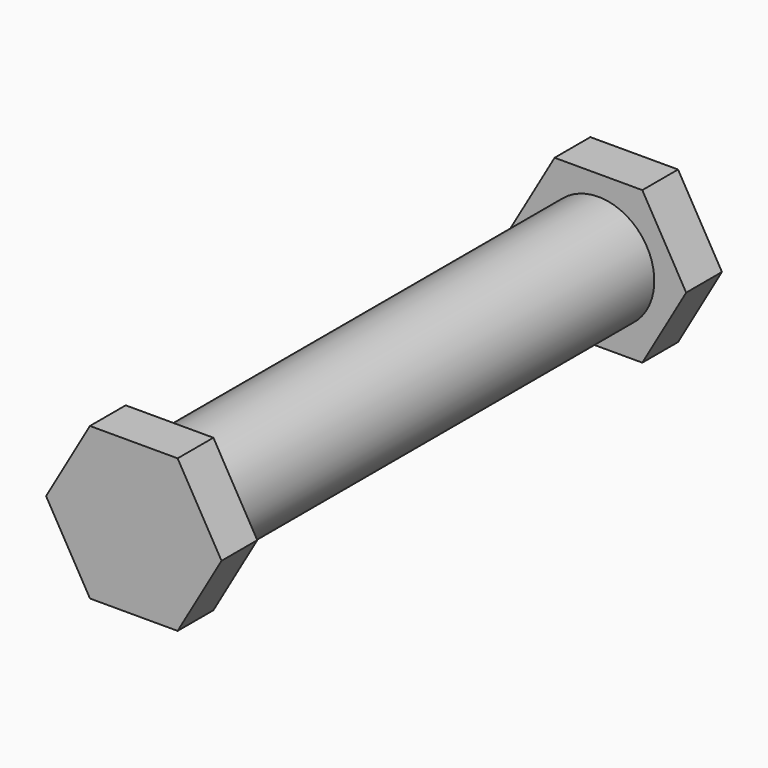
from build123d import *

# Parameters (mm, degrees)
F1_DEPTH = 6.35
F2_R     = 7.9375
F3_DEPTH = 76.2
F4_R     = 7.9375
F5_DEPTH = 6.35


with BuildPart() as f1:
    # F0 (on Front) → F1 (new body)
    with BuildSketch(Plane.XZ):
        Polygon((12.464992, 0), (6.232496, 10.795), (-6.232496, 10.795), (-12.464992, 0), (-6.232496, -10.795), (6.232496, -10.795), align=None)
    extrude(amount=F1_DEPTH)

    # F2 (on face) → F3 (join)
    with BuildSketch(Plane(origin=(0, 0, 0), x_dir=(-1, 0, 0), z_dir=(0, 1, 0))):
        Circle(F2_R)
    extrude(amount=F3_DEPTH)

    # F4 (on face) → F5 (join)
    with BuildSketch(Plane(origin=(0, 76.2, 0), x_dir=(-1, 0, 0), z_dir=(0, 1, 0))):
        Polygon((12.464992, 0), (6.232496, 10.795), (-6.232496, 10.795), (-12.464992, 0), (-6.232496, -10.795), (6.232496, -10.795), align=None)
        Circle(F4_R, mode=Mode.SUBTRACT)
        Circle(F4_R)
    extrude(amount=F5_DEPTH)


solid = f1.part
